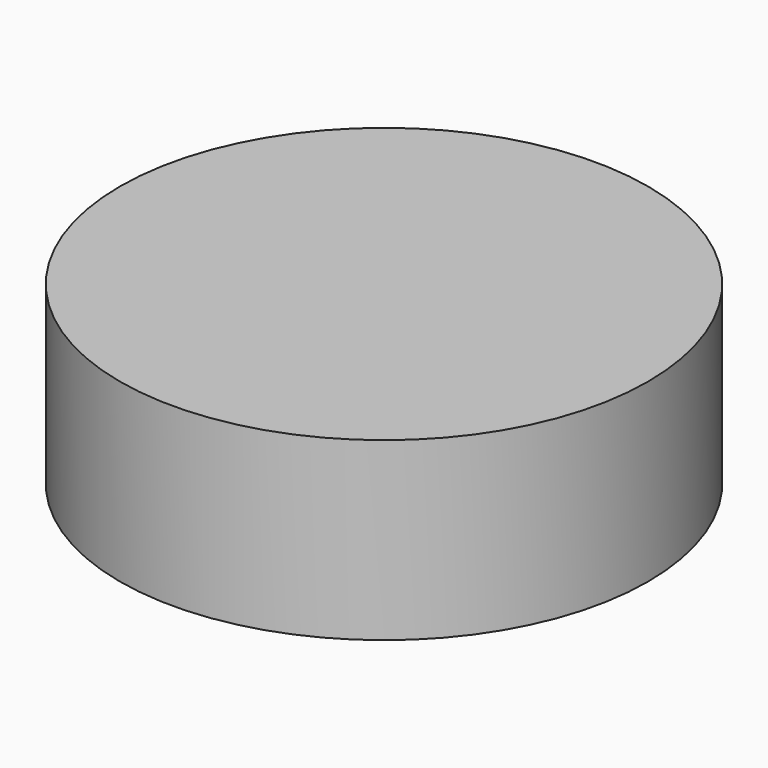
from build123d import *

# Parameters (mm, degrees)
SKETCH_R  = 0.15
PAD_DEPTH = 0.1


with BuildPart() as part:
    # Sketch → Pad (new body)
    with BuildSketch(Plane.XY):
        Circle(SKETCH_R)
    extrude(amount=PAD_DEPTH)


solid = part.part
